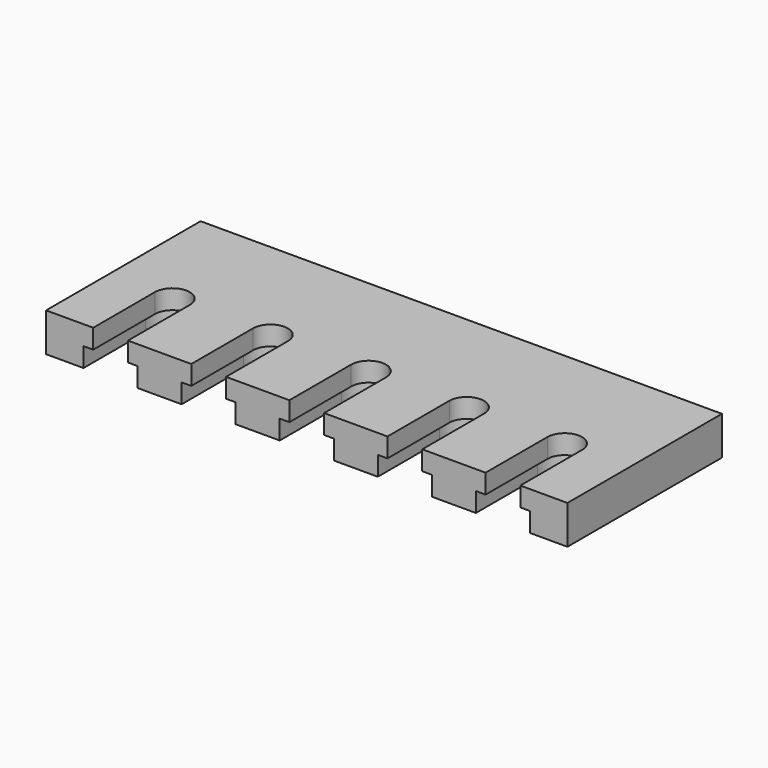
from build123d import *

# Parameters (mm, degrees)
F1_DEPTH = 2
F3_DEPTH = 1


with BuildPart() as f1:
    # F0 (on Top) → F1 (new body)
    with BuildSketch(Plane.XY):
        with BuildLine():
            Line((13.5, 5), (-13.5, 5))
            Line((-13.5, 5), (-13.5, -5))
            Line((-13.5, -5), (-11.06, -5))
            Line((-11.06, -5), (-11.06, -1))
            ThreePointArc((-11.06, -1), (-10.16, -0.1), (-9.26, -1))
            Line((-9.26, -1), (-9.26, -5))
            Line((-9.26, -5), (-5.98, -5))
            Line((-5.98, -5), (-5.98, -1))
            ThreePointArc((-5.98, -1), (-5.08, -0.1), (-4.18, -1))
            Line((-4.18, -1), (-4.18, -5))
            Line((-4.18, -5), (-0.9, -5))
            Line((-0.9, -5), (-0.9, -1))
            ThreePointArc((-0.9, -1), (0, -0.1), (0.9, -1))
            Line((0.9, -1), (0.9, -5))
            Line((0.9, -5), (4.18, -5))
            Line((4.18, -5), (4.18, -1))
            ThreePointArc((4.18, -1), (5.08, -0.1), (5.98, -1))
            Line((5.98, -1), (5.98, -5))
            Line((5.98, -5), (9.26, -5))
            Line((9.26, -5), (9.26, -1))
            ThreePointArc((9.26, -1), (10.16, -0.1), (11.06, -1))
            Line((11.06, -1), (11.06, -5))
            Line((11.06, -5), (13.5, -5))
            Line((13.5, -5), (13.5, 5))
        make_face()
    extrude(amount=F1_DEPTH)

    # F2 (on face) → F3 (cut)
    with BuildSketch(Plane(origin=(0, 0, 0), x_dir=(1, 0, 0), z_dir=(0, 0, -1))):
        with BuildLine():
            Line((-11.56, 6.848881), (-11.56, 5))
            Line((-11.56, 5), (-11.56, 1))
            ThreePointArc((-11.56, 1), (-10.16, -0.4), (-8.76, 1))
            Line((-8.76, 1), (-8.76, 5))
            Line((-8.76, 5), (-6.48, 5))
            Line((-6.48, 5), (-6.48, 1))
            ThreePointArc((-6.48, 1), (-5.08, -0.4), (-3.68, 1))
            Line((-3.68, 1), (-3.68, 5))
            Line((-3.68, 5), (-1.4, 5))
            Line((-1.4, 5), (-1.4, 1))
            ThreePointArc((-1.4, 1), (0, -0.4), (1.4, 1))
            Line((1.4, 1), (1.4, 5))
            Line((1.4, 5), (3.68, 5))
            Line((3.68, 5), (3.68, 1))
            ThreePointArc((3.68, 1), (5.08, -0.4), (6.48, 1))
            Line((6.48, 1), (6.48, 5))
            Line((6.48, 5), (8.76, 5))
            Line((8.76, 5), (8.76, 1))
            ThreePointArc((8.76, 1), (10.16, -0.4), (11.56, 1))
            Line((11.56, 1), (11.56, 5))
            Line((11.56, 5), (11.56, 6.848881))
            Line((11.56, 6.848881), (-11.56, 6.848881))
        make_face()
    extrude(amount=-F3_DEPTH, mode=Mode.SUBTRACT)


solid = f1.part
